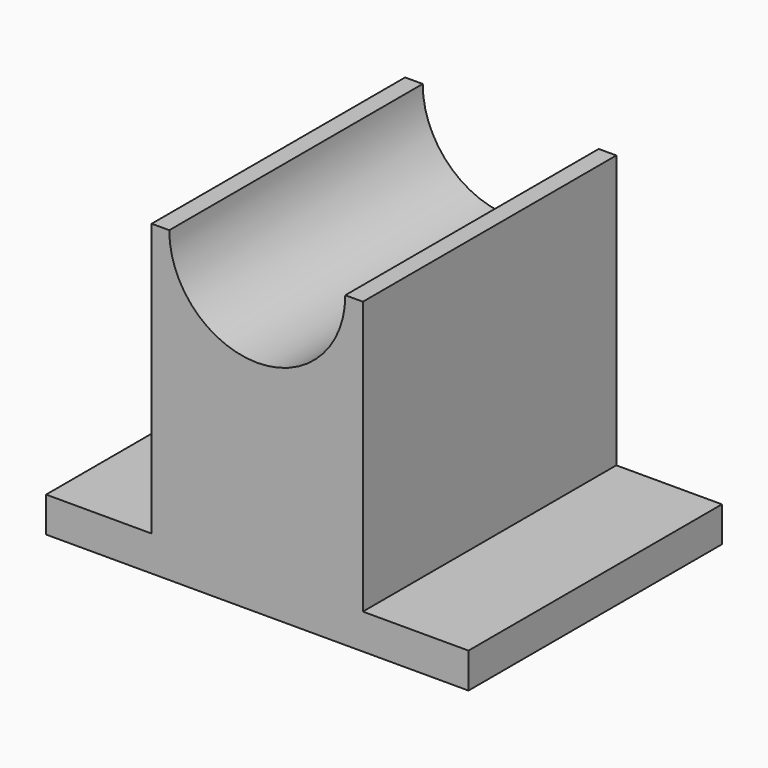
from build123d import *

# Parameters (mm, degrees)
F0_W     = 152.4
F0_H     = 111.125
F1_DEPTH = 114.3
F2_W     = 38.1
F2_H     = 98.425
F3_DEPTH = 114.3
F5_DEPTH = 114.3


with BuildPart() as f1:
    # F0 (on Front) → F1 (new body)
    with BuildSketch(Plane.XZ):
        with Locations((76.2, 55.5625)):
            Rectangle(F0_W, F0_H)
    extrude(amount=F1_DEPTH)

    # F2 (on face) → F3 (cut)
    with BuildSketch(Plane.XZ.offset(114.3)):
        with Locations((19.05, 61.9125)):
            Rectangle(F2_W, F2_H)
        with Locations((133.35, 61.9125)):
            Rectangle(F2_W, F2_H)
    extrude(amount=-F3_DEPTH, mode=Mode.SUBTRACT)

    # F4 (on face) → F5 (cut)
    with BuildSketch(Plane.XZ.offset(114.3)):
        with BuildLine():
            Line((107.95, 111.125), (44.45, 111.125))
            ThreePointArc((44.45, 111.125), (76.2, 79.32702), (107.95, 111.125))
        make_face()
    extrude(amount=-F5_DEPTH, mode=Mode.SUBTRACT)


solid = f1.part
